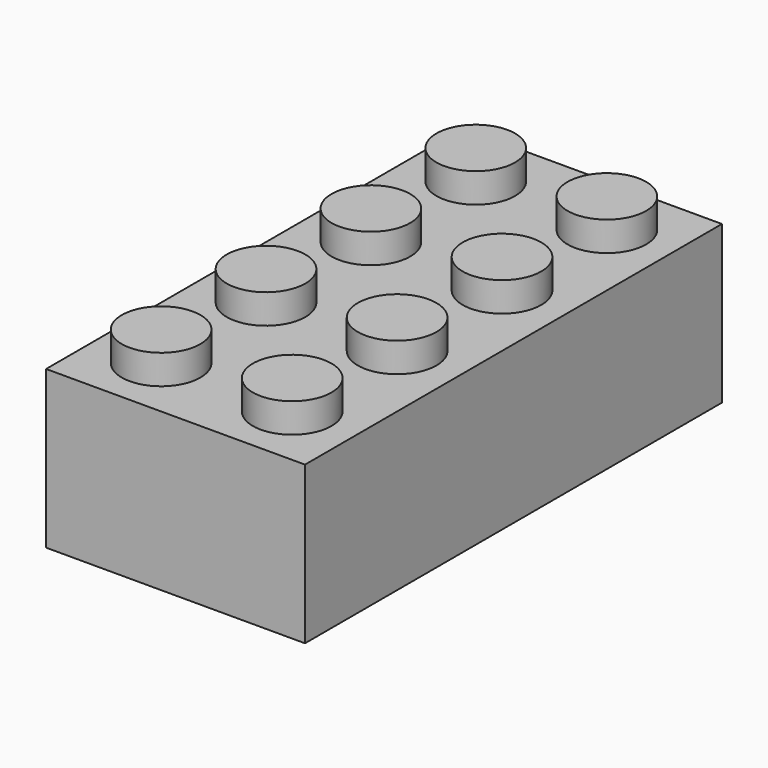
from build123d import *

# Parameters (mm, degrees)
F0_W     = 15.8
F0_H     = 31.8
F0_R     = 2.4
F1_DEPTH = 9.6
F2_DEPTH = 11.4
F3_T     = -1.2
F5_W     = 0.6
F5_H     = 0.6
F6_DEPTH = 8.4
F4_R     = 3.25
F4_R_2   = 2.4
F7_DEPTH = 8.4
F8_START = 1.5
F8_DEPTH = 6.9


with BuildPart() as f1:
    # F0 (on Top) → F1 (new body)
    with BuildSketch(Plane.XY):
        Rectangle(F0_W, F0_H)
        with Locations((-4, -12)):
            Circle(F0_R, mode=Mode.SUBTRACT)
        with Locations((-4, -4)):
            Circle(F0_R, mode=Mode.SUBTRACT)
        with Locations((4, -12)):
            Circle(F0_R, mode=Mode.SUBTRACT)
        with Locations((4, -4)):
            Circle(F0_R, mode=Mode.SUBTRACT)
        with Locations((-4, 4)):
            Circle(F0_R, mode=Mode.SUBTRACT)
        with Locations((-4, 12)):
            Circle(F0_R, mode=Mode.SUBTRACT)
        with Locations((4, 4)):
            Circle(F0_R, mode=Mode.SUBTRACT)
        with Locations((4, 12)):
            Circle(F0_R, mode=Mode.SUBTRACT)
        with Locations((4, 4)):
            Circle(F0_R)
        with Locations((4, 12)):
            Circle(F0_R)
        with Locations((4, -4)):
            Circle(F0_R)
        with Locations((4, -12)):
            Circle(F0_R)
        with Locations((-4, -12)):
            Circle(F0_R)
        with Locations((-4, -4)):
            Circle(F0_R)
        with Locations((-4, 4)):
            Circle(F0_R)
        with Locations((-4, 12)):
            Circle(F0_R)
    extrude(amount=F1_DEPTH)

    # F0 (on Top) → F2 (join)
    with BuildSketch(Plane.XY):
        with Locations((-4, 12)):
            Circle(F0_R)
        with Locations((4, 12)):
            Circle(F0_R)
        with Locations((4, 4)):
            Circle(F0_R)
        with Locations((4, -4)):
            Circle(F0_R)
        with Locations((-4, -4)):
            Circle(F0_R)
        with Locations((-4, 4)):
            Circle(F0_R)
        with Locations((-4, -12)):
            Circle(F0_R)
        with Locations((4, -12)):
            Circle(F0_R)
    extrude(amount=F2_DEPTH)

    # F3
    f3_openings = [f1.faces().sort_by_distance(p)[0] for p in [
        (0, 0, 0),
    ]]
    offset(amount=F3_T, openings=f3_openings, kind=Kind.INTERSECTION)

    # F5 (on Top) → F6 (join, through all)
    with BuildSketch(Plane.XY):
        with Locations((-4, -14.7)):
            Rectangle(F5_W, F5_H)
        with Locations((4, -14.7)):
            Rectangle(F5_W, F5_H)
        with Locations((6.7, -12)):
            Rectangle(F5_W, F5_H)
        with Locations((-6.7, -12)):
            Rectangle(F5_W, F5_H)
        with Locations((-6.7, -4)):
            Rectangle(F5_W, F5_H)
        with Locations((6.7, -4)):
            Rectangle(F5_W, F5_H)
        with Locations((-6.7, 4)):
            Rectangle(F5_W, F5_H)
        with Locations((6.7, 4)):
            Rectangle(F5_W, F5_H)
        with Locations((6.7, 12)):
            Rectangle(F5_W, F5_H)
        with Locations((-6.7, 12)):
            Rectangle(F5_W, F5_H)
        with Locations((-4, 14.7)):
            Rectangle(F5_W, F5_H)
        with Locations((4, 14.7)):
            Rectangle(F5_W, F5_H)
    extrude(amount=F6_DEPTH)

    # F4 (on Top) → F7 (join, through all)
    with BuildSketch(Plane.XY):
        with Locations((0, -8)):
            Circle(F4_R)
        with Locations((0, -8)):
            Circle(F4_R_2, mode=Mode.SUBTRACT)
        with BuildLine():
            ThreePointArc((3.2361242251, -0.3), (3.246529203, -0.1501603619), (3.25, 0))
            ThreePointArc((3.25, 0), (3.246529203, 0.1501603619), (3.2361242251, 0.3))
            ThreePointArc((3.2361242251, 0.3), (0, 3.25), (-3.2361242251, 0.3))
            ThreePointArc((-3.2361242251, 0.3), (-3.25, 0), (-3.2361242251, -0.3))
            ThreePointArc((-3.2361242251, -0.3), (0, -3.25), (3.2361242251, -0.3))
        make_face()
        Circle(F4_R_2, mode=Mode.SUBTRACT)
        with Locations((0, 8)):
            Circle(F4_R)
        with Locations((0, 8)):
            Circle(F4_R_2, mode=Mode.SUBTRACT)
    extrude(amount=F7_DEPTH)

    # F4 (on Top) → F8 (join)
    with BuildSketch(Plane.XY.offset(F8_START)):
        with BuildLine():
            ThreePointArc((-3.2361242251, -0.3), (-3.25, 0), (-3.2361242251, 0.3))
            Line((-3.2361242251, 0.3), (-6.7, 0.3))
            Line((-6.7, 0.3), (-6.7, -0.3))
            Line((-6.7, -0.3), (-3.2361242251, -0.3))
        make_face()
        with BuildLine():
            ThreePointArc((3.2361242251, 0.3), (3.246529203, 0.1501603619), (3.25, 0))
            ThreePointArc((3.25, 0), (3.246529203, -0.1501603619), (3.2361242251, -0.3))
            Line((3.2361242251, -0.3), (6.7, -0.3))
            Line((6.7, -0.3), (6.7, 0.3))
            Line((6.7, 0.3), (3.2361242251, 0.3))
        make_face()
    extrude(amount=F8_DEPTH)


solid = f1.part
